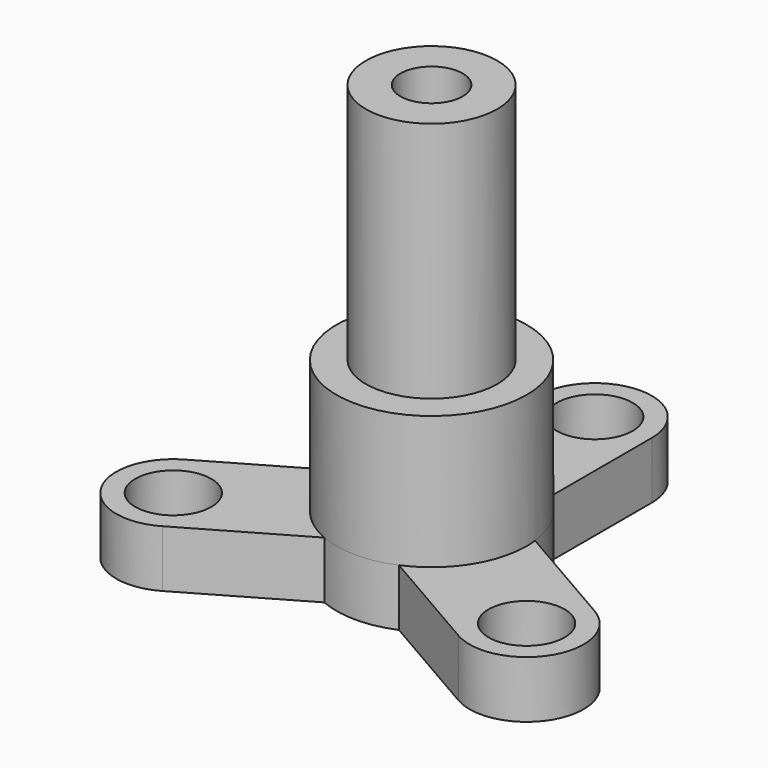
from build123d import *

# Parameters (mm, degrees)
F0_R     = 1.1
F0_R_2   = 2.15
F1_DEPTH = 1.65
F2_R     = 2.75
F2_R_2   = 2.15
F3_DEPTH = 3.85
F4_R     = 2.15
F4_R_2   = 1.9
F4_R_3   = 0.9
F5_DEPTH = 0.3
F6_DEPTH = 7


with BuildPart() as f1:
    # F0 (on Top) → F1 (new body)
    with BuildSketch(Plane.XY):
        with BuildLine():
            ThreePointArc((-12.690082, 13.745292), (-11.040082, 14.295292), (-9.390082, 13.745292))
            Line((-9.390082, 13.745292), (-9.390082, 17.445292))
            ThreePointArc((-9.390082, 17.445292), (-11.040082, 19.095292), (-12.690082, 17.445292))
            Line((-12.690082, 17.445292), (-12.690082, 13.745292))
        make_face()
        with Locations((-11.040082, 17.445292)):
            Circle(F0_R, mode=Mode.SUBTRACT)
        with BuildLine():
            ThreePointArc((-9.959826, 9.01635), (-8.745174, 10.03007), (-8.290082, 11.545292))
            ThreePointArc((-8.290082, 11.545292), (-8.295022, 11.710059), (-8.309826, 11.874234))
            ThreePointArc((-8.309826, 11.874234), (-8.658512, 12.920292), (-9.390082, 13.745292))
            ThreePointArc((-9.390082, 13.745292), (-11.040082, 14.295292), (-12.690082, 13.745292))
            ThreePointArc((-12.690082, 13.745292), (-13.421652, 12.920292), (-13.770338, 11.874234))
            ThreePointArc((-13.770338, 11.874234), (-13.421652, 10.170292), (-12.120338, 9.01635))
            ThreePointArc((-12.120338, 9.01635), (-11.040082, 8.795292), (-9.959826, 9.01635))
        make_face()
        with Locations((-11.040082, 11.545292)):
            Circle(F0_R_2, mode=Mode.SUBTRACT)
        with BuildLine():
            ThreePointArc((-8.309826, 11.874234), (-8.295022, 11.710059), (-8.290082, 11.545292))
            ThreePointArc((-8.290082, 11.545292), (-8.745174, 10.03007), (-9.959826, 9.01635))
            Line((-9.959826, 9.01635), (-6.755532, 7.16635))
            ThreePointArc((-6.755532, 7.16635), (-4.50159, 7.770292), (-5.105532, 10.024234))
            Line((-5.105532, 10.024234), (-8.309826, 11.874234))
        make_face()
        with Locations((-5.930532, 8.595292)):
            Circle(F0_R, mode=Mode.SUBTRACT)
        with BuildLine():
            Line((-15.324632, 7.16635), (-12.120338, 9.01635))
            ThreePointArc((-12.120338, 9.01635), (-13.421652, 10.170292), (-13.770338, 11.874234))
            Line((-13.770338, 11.874234), (-16.974632, 10.024234))
            ThreePointArc((-16.974632, 10.024234), (-17.578574, 7.770292), (-15.324632, 7.16635))
        make_face()
        with Locations((-16.149632, 8.595292)):
            Circle(F0_R, mode=Mode.SUBTRACT)
    extrude(amount=F1_DEPTH)

    # F2 (on face) → F3 (join)
    with BuildSketch(Plane.XY.offset(1.65)):
        with Locations((-11.040082, 11.545292)):
            Circle(F2_R)
        with Locations((-11.040082, 11.545292)):
            Circle(F2_R_2, mode=Mode.SUBTRACT)
    extrude(amount=F3_DEPTH)

    # F4 (on face) → F5 (join)
    with BuildSketch(Plane.XY.offset(5.5)):
        with Locations((-11.040082, 11.545292)):
            Circle(F4_R)
        with Locations((-11.040082, 11.545292)):
            Circle(F4_R_2, mode=Mode.SUBTRACT)
        with Locations((-11.040082, 11.545292)):
            Circle(F4_R_2)
        with Locations((-11.040082, 11.545292)):
            Circle(F4_R_3, mode=Mode.SUBTRACT)
    extrude(amount=-F5_DEPTH)

    # F4 (on face) → F6 (join)
    with BuildSketch(Plane.XY.offset(5.5)):
        with Locations((-11.040082, 11.545292)):
            Circle(F4_R_2)
        with Locations((-11.040082, 11.545292)):
            Circle(F4_R_3, mode=Mode.SUBTRACT)
    extrude(amount=F6_DEPTH)


solid = f1.part
